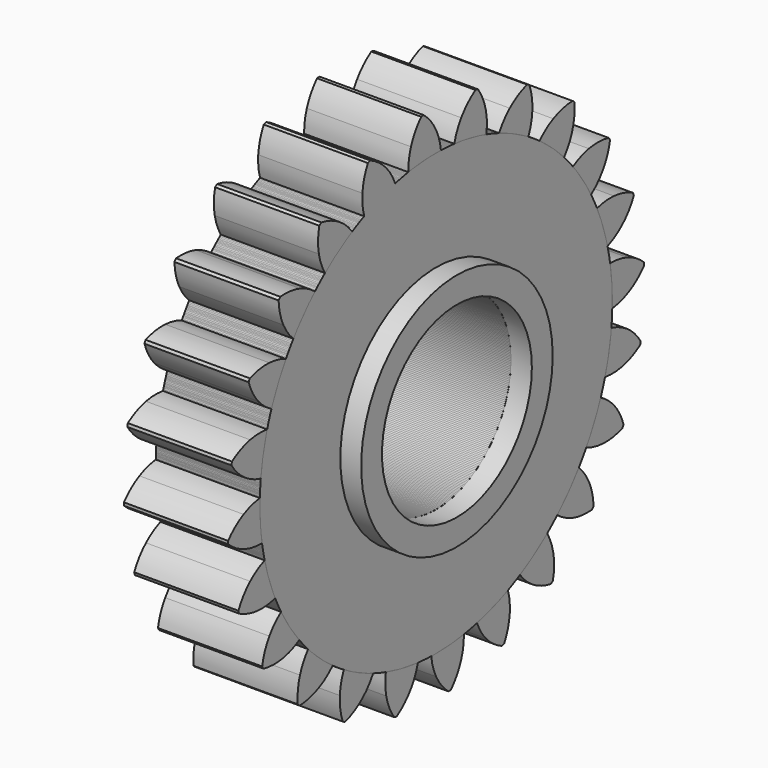
from build123d import *

# Parameters (mm, degrees)
F0_R          = 22.838314
F1_DEPTH      = 25.4
F2_COUNT      = 24
F3_R          = 29.188314
F3_R_2        = 22.838314
F4_DEPTH      = 5.08
F4_DEPTH_BACK = 30.48


with BuildPart() as f1:
    # F0 (on Right) → F1 (new body)
    with BuildSketch(Plane.YZ):
        with BuildLine():
            ThreePointArc((-8.467135, 53.049538), (-3.513522, 53.605979), (1.470343, 53.700875))
            ThreePointArc((1.470343, 53.700875), (0.961011, 56.254209), (0, 58.674))
            ThreePointArc((0, 58.674), (-1.639962, 61.225169), (-3.765771, 63.38824))
            ThreePointArc((-3.765771, 63.38824), (-4.155068, 63.394094), (-4.540271, 63.337477))
            ThreePointArc((-4.540271, 63.337477), (-6.365557, 60.915438), (-7.658494, 58.172036))
            ThreePointArc((-7.658494, 58.172036), (-8.295437, 55.647509), (-8.467135, 53.049538))
        make_face()
        with BuildLine():
            ThreePointArc((-8.467135, 53.049538), (-34.864616, -40.870581), (53.721, 0))
            ThreePointArc((53.721, 0), (38.502819, 37.463032), (1.470343, 53.700875))
            ThreePointArc((1.470343, 53.700875), (-3.513522, 53.605979), (-8.467135, 53.049538))
        make_face()
        Circle(F0_R, mode=Mode.SUBTRACT)
        with BuildLine():
            ThreePointArc((-8.467135, 53.049538), (-34.864616, -40.870581), (53.721, 0))
            ThreePointArc((53.721, 0), (38.502819, 37.463032), (1.470343, 53.700875))
            ThreePointArc((1.470343, 53.700875), (-3.513522, 53.605979), (-8.467135, 53.049538))
        make_face()
        Circle(F0_R, mode=Mode.SUBTRACT)
    extrude(amount=-F1_DEPTH)


with BuildPart() as f2_1:
    # F2: instance of F1
    add(f1.part.rotate(Axis((0, 0, 0), (-1, 0, 0)), 1 * 360 / F2_COUNT))


with BuildPart() as f2_2:
    # F2: instance of F1
    add(f1.part.rotate(Axis((0, 0, 0), (-1, 0, 0)), 2 * 360 / F2_COUNT))


with BuildPart() as f2_3:
    # F2: instance of F1
    add(f1.part.rotate(Axis((0, 0, 0), (-1, 0, 0)), 3 * 360 / F2_COUNT))


with BuildPart() as f2_4:
    # F2: instance of F1
    add(f1.part.rotate(Axis((0, 0, 0), (-1, 0, 0)), 4 * 360 / F2_COUNT))


with BuildPart() as f2_5:
    # F2: instance of F1
    add(f1.part.rotate(Axis((0, 0, 0), (-1, 0, 0)), 5 * 360 / F2_COUNT))


with BuildPart() as f2_6:
    # F2: instance of F1
    add(f1.part.rotate(Axis((0, 0, 0), (-1, 0, 0)), 6 * 360 / F2_COUNT))


with BuildPart() as f2_7:
    # F2: instance of F1
    add(f1.part.rotate(Axis((0, 0, 0), (-1, 0, 0)), 7 * 360 / F2_COUNT))


with BuildPart() as f2_8:
    # F2: instance of F1
    add(f1.part.rotate(Axis((0, 0, 0), (-1, 0, 0)), 8 * 360 / F2_COUNT))


with BuildPart() as f2_9:
    # F2: instance of F1
    add(f1.part.rotate(Axis((0, 0, 0), (-1, 0, 0)), 9 * 360 / F2_COUNT))


with BuildPart() as f2_10:
    # F2: instance of F1
    add(f1.part.rotate(Axis((0, 0, 0), (-1, 0, 0)), 10 * 360 / F2_COUNT))


with BuildPart() as f2_11:
    # F2: instance of F1
    add(f1.part.rotate(Axis((0, 0, 0), (-1, 0, 0)), 11 * 360 / F2_COUNT))


with BuildPart() as f2_12:
    # F2: instance of F1
    add(f1.part.rotate(Axis((0, 0, 0), (-1, 0, 0)), 12 * 360 / F2_COUNT))


with BuildPart() as f2_13:
    # F2: instance of F1
    add(f1.part.rotate(Axis((0, 0, 0), (-1, 0, 0)), 13 * 360 / F2_COUNT))


with BuildPart() as f2_14:
    # F2: instance of F1
    add(f1.part.rotate(Axis((0, 0, 0), (-1, 0, 0)), 14 * 360 / F2_COUNT))


with BuildPart() as f2_15:
    # F2: instance of F1
    add(f1.part.rotate(Axis((0, 0, 0), (-1, 0, 0)), 15 * 360 / F2_COUNT))


with BuildPart() as f2_16:
    # F2: instance of F1
    add(f1.part.rotate(Axis((0, 0, 0), (-1, 0, 0)), 16 * 360 / F2_COUNT))


with BuildPart() as f2_17:
    # F2: instance of F1
    add(f1.part.rotate(Axis((0, 0, 0), (-1, 0, 0)), 17 * 360 / F2_COUNT))


with BuildPart() as f2_18:
    # F2: instance of F1
    add(f1.part.rotate(Axis((0, 0, 0), (-1, 0, 0)), 18 * 360 / F2_COUNT))


with BuildPart() as f2_19:
    # F2: instance of F1
    add(f1.part.rotate(Axis((0, 0, 0), (-1, 0, 0)), 19 * 360 / F2_COUNT))


with BuildPart() as f2_20:
    # F2: instance of F1
    add(f1.part.rotate(Axis((0, 0, 0), (-1, 0, 0)), 20 * 360 / F2_COUNT))


with BuildPart() as f2_21:
    # F2: instance of F1
    add(f1.part.rotate(Axis((0, 0, 0), (-1, 0, 0)), 21 * 360 / F2_COUNT))


with BuildPart() as f2_22:
    # F2: instance of F1
    add(f1.part.rotate(Axis((0, 0, 0), (-1, 0, 0)), 22 * 360 / F2_COUNT))


with BuildPart() as f2_23:
    # F2: instance of F1
    add(f1.part.rotate(Axis((0, 0, 0), (-1, 0, 0)), 23 * 360 / F2_COUNT))


with BuildPart() as f4:
    # F3 (on face) → F4 (new body, two sides)
    with BuildSketch(Plane.YZ) as f4_sk:
        Circle(F3_R)
        Circle(F3_R_2, mode=Mode.SUBTRACT)
    extrude(amount=F4_DEPTH)
    extrude(f4_sk.sketch, amount=-F4_DEPTH_BACK)


solid = Compound([f1.part, f2_1.part, f2_2.part, f2_3.part, f2_4.part, f2_5.part, f2_6.part, f2_7.part, f2_8.part, f2_9.part, f2_10.part, f2_11.part, f2_12.part, f2_13.part, f2_14.part, f2_15.part, f2_16.part, f2_17.part, f2_18.part, f2_19.part, f2_20.part, f2_21.part, f2_22.part, f2_23.part, f4.part])
